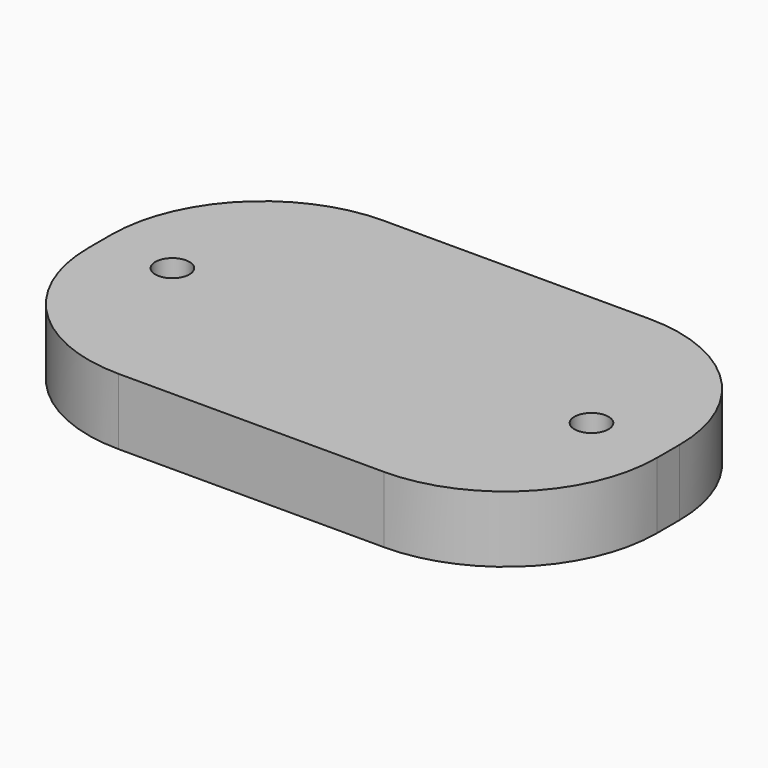
from build123d import *

# Parameters (mm, degrees)
F1_DEPTH = 3.5
F2_R     = 1.8
F3_DEPTH = 8
F4_R     = 1.8
F5_DEPTH = 8


with BuildPart() as f1:
    # F0 (on Top) → F1 (new body, symmetric)
    with BuildSketch(Plane.XY):
        with BuildLine():
            ThreePointArc((30, 1.5), (25.313708, 12.813708), (14, 17.5))
            Line((14, 17.5), (-14, 17.5))
            ThreePointArc((-14, 17.5), (-25.313708, 12.813708), (-30, 1.5))
            Line((-30, 1.5), (-30, -1.5))
            ThreePointArc((-30, -1.5), (-25.313708, -12.813708), (-14, -17.5))
            Line((-14, -17.5), (14, -17.5))
            ThreePointArc((14, -17.5), (25.313708, -12.813708), (30, -1.5))
            Line((30, -1.5), (30, 1.5))
        make_face()
    extrude(amount=F1_DEPTH, both=True)

    # F2 (on face) → F3 (cut)
    with BuildSketch(Plane.XY.offset(3.5)):
        with Locations((-22.338685, 0)):
            Circle(F2_R)
    extrude(amount=-F3_DEPTH, mode=Mode.SUBTRACT)

    # F4 (on face) → F5 (cut)
    with BuildSketch(Plane.XY.offset(3.5)):
        with Locations((21.90068, 0)):
            Circle(F4_R)
    extrude(amount=-F5_DEPTH, mode=Mode.SUBTRACT)


solid = f1.part
